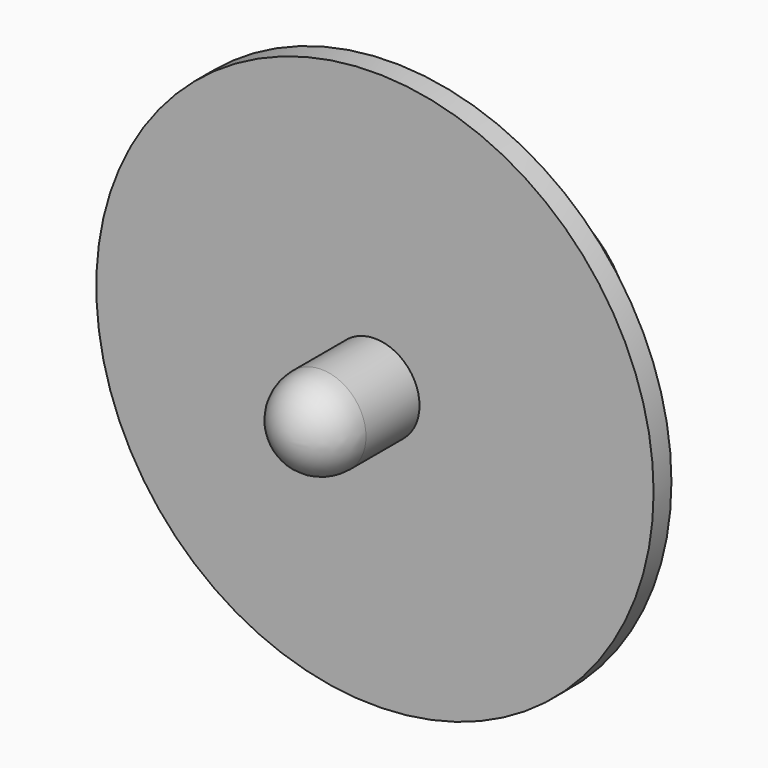
from build123d import *

# Parameters (mm, degrees)
F0_R     = 5
F0_R_2   = 1.5
F1_DEPTH = 7.25
F2_R     = 12.5
F3_DEPTH = 1
F4_R     = 2
F5_DEPTH = 5
F6_R     = 2


with BuildPart() as f1:
    # F0 (on Front) → F1 (new body)
    with BuildSketch(Plane.XZ):
        Circle(F0_R)
        Circle(F0_R_2, mode=Mode.SUBTRACT)
    extrude(amount=F1_DEPTH)

    # F2 (on face) → F3 (join)
    with BuildSketch(Plane.XZ.offset(7.25)):
        Circle(F2_R)
    extrude(amount=F3_DEPTH)

    # F4 (on face) → F5 (join)
    with BuildSketch(Plane.XZ.offset(8.25)):
        Circle(F4_R)
    extrude(amount=F5_DEPTH)

    # F6
    f6_edges = [f1.edges().sort_by_distance(p)[0] for p in [
        (-2, -13.25, 0),
    ]]
    fillet(f6_edges, radius=F6_R)


solid = f1.part
